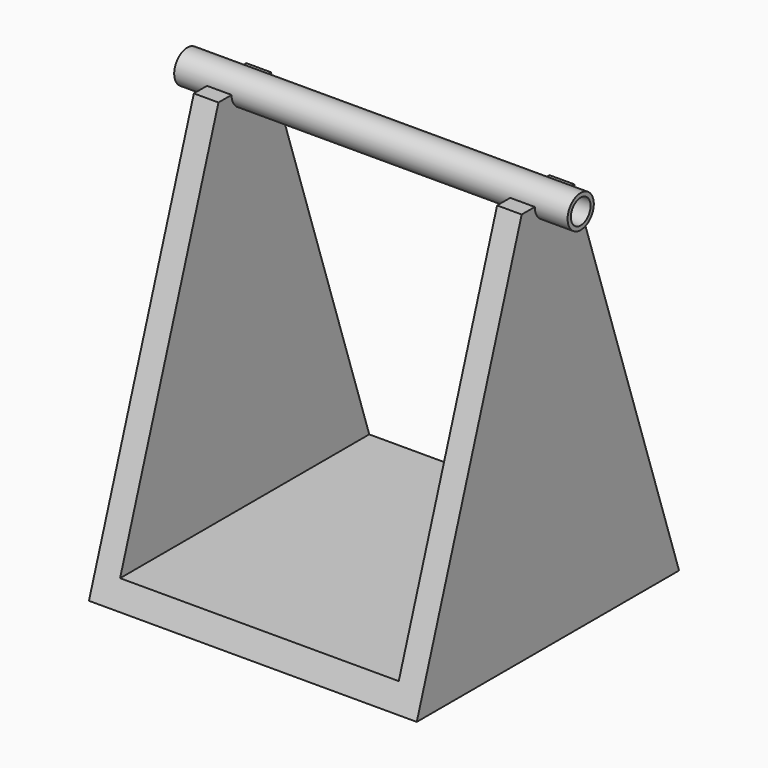
from build123d import *

# Parameters (mm, degrees)
F0_W          = 508
F0_H          = 508
F1_DEPTH      = 609.6
F2_W          = 431.8
F2_H          = 571.5
F3_DEPTH      = 508.001
F5_DEPTH      = 508.001
F7_DEPTH      = 50.8
F7_DEPTH_BACK = 558.8
F8_T          = -6.35


with BuildPart() as f1:
    # F0 (on Top) → F1 (new body)
    with BuildSketch(Plane.XY):
        Rectangle(F0_W, F0_H)
    extrude(amount=F1_DEPTH)

    # F2 (on face) → F3 (cut, through all)
    with BuildSketch(Plane.XZ.offset(254)):
        with Locations((0, 323.85)):
            Rectangle(F2_W, F2_H)
    extrude(amount=-F3_DEPTH, mode=Mode.SUBTRACT)

    # F4 (on face) → F5 (cut, through all)
    with BuildSketch(Plane.YZ.offset(254)):
        Polygon((-254, 609.6), (-254, 0), (-50.8, 609.6), align=None)
        Polygon((254, 0), (254, 609.6), (50.8, 609.6), align=None)
        with BuildLine():
            ThreePointArc((-25.4, 609.6), (0, 584.2), (25.4, 609.6))
            Line((25.4, 609.6), (-25.4, 609.6))
        make_face()
    extrude(amount=-F5_DEPTH, mode=Mode.SUBTRACT)


with BuildPart() as f7:
    # F6 (on face) → F7 (new body, two sides)
    with BuildSketch(Plane.YZ.offset(254)) as f7_sk:
        with BuildLine():
            ThreePointArc((-25.4, 609.6), (0, 584.2), (25.4, 609.6))
            ThreePointArc((25.4, 609.6), (0, 635), (-25.4, 609.6))
        make_face()
    extrude(amount=F7_DEPTH)
    extrude(f7_sk.sketch, amount=-F7_DEPTH_BACK)

    # F8
    f8_openings = [f7.faces().sort_by_distance(p)[0] for p in [
        (304.8, 0, 609.6),
        (-304.8, 0, 609.6),
    ]]
    offset(amount=F8_T, openings=f8_openings)


solid = Compound([f1.part, f7.part])
